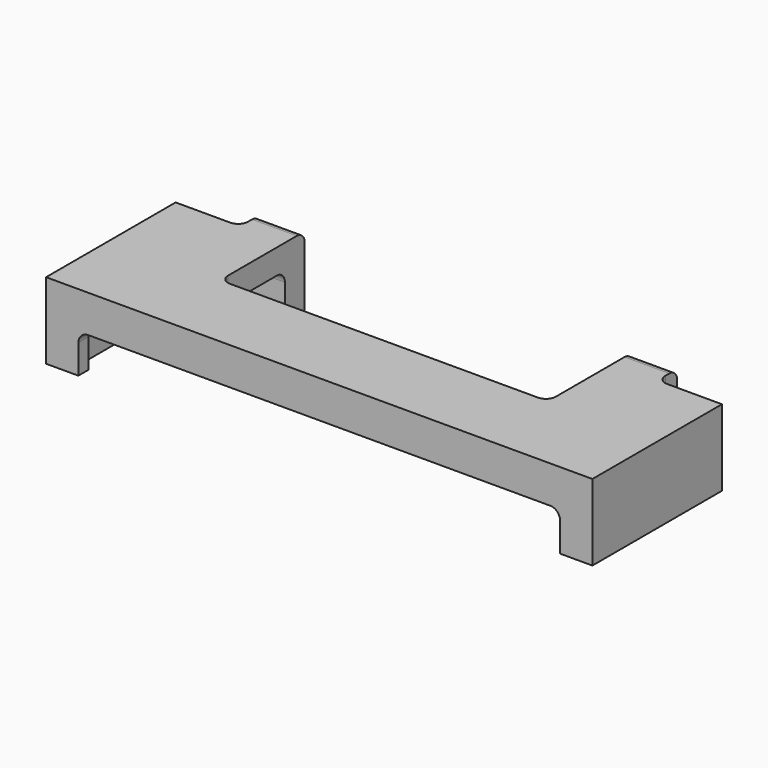
from build123d import *

# Parameters (mm, degrees)
SKETCH045_W     = 110
SKETCH045_H     = 32.6
PAD025_DEPTH    = 15.35
SKETCH046_W     = 9
SKETCH046_H     = 24.35
SKETCH046_R     = 2.25
PAD026_DEPTH    = 5
FILLET018_R     = 3.5
SKETCH047_W     = 101.4
SKETCH047_H     = 30.1
POCKET021_DEPTH = 10.35
SKETCH048_W     = 97
SKETCH048_H     = 2.5
POCKET022_DEPTH = 7.85
FILLET019_R     = 2
SKETCH049_W     = 66
SKETCH049_H     = 16.3
POCKET023_DEPTH = 5
FILLET020_R     = 2
FILLET021_R     = 2


with BuildPart() as part:
    # Sketch045 → Pad025 (new body)
    with BuildSketch(Plane.XY):
        Rectangle(SKETCH045_W, SKETCH045_H)
    extrude(amount=PAD025_DEPTH)

    # Sketch046 (on Face1 of Pad025) → Pad026 (join)
    with BuildSketch(Plane(origin=(0, 16.3, 0), x_dir=(-1, 0, 0), z_dir=(0, 1, 0))):
        with Locations((-37.5, 3.175)):
            Rectangle(SKETCH046_W, SKETCH046_H)
        with Locations((-37.5, -4.5)):
            Circle(SKETCH046_R, mode=Mode.SUBTRACT)
        with Locations((37.5, 3.175)):
            Rectangle(SKETCH046_W, SKETCH046_H)
        with Locations((37.5, -4.5)):
            Circle(SKETCH046_R, mode=Mode.SUBTRACT)
    extrude(amount=PAD026_DEPTH)

    # Fillet018
    fillet018_edges = [part.edges().sort_by_distance(p)[0] for p in [
        (42, 18.8, -9),
        (33, 18.8, -9),
        (-33, 18.8, -9),
        (-42, 18.8, -9),
    ]]
    fillet(fillet018_edges, radius=FILLET018_R)

    # Sketch047 (on Face7 of Fillet018) → Pocket021 (cut)
    with BuildSketch(Plane(origin=(0, 0, 0), x_dir=(1, 0, 0), z_dir=(0, 0, -1))):
        with Locations((0, -1.25)):
            Rectangle(SKETCH047_W, SKETCH047_H)
    extrude(amount=-POCKET021_DEPTH, mode=Mode.SUBTRACT)

    # Sketch048 (on Face12 of Pocket021) → Pocket022 (cut)
    with BuildSketch(Plane(origin=(0, 0, 0), x_dir=(1, 0, 0), z_dir=(0, 0, -1))):
        with Locations((0, 15.05)):
            Rectangle(SKETCH048_W, SKETCH048_H)
    extrude(amount=-POCKET022_DEPTH, mode=Mode.SUBTRACT)

    # Fillet019
    fillet019_edges = [part.edges().sort_by_distance(p)[0] for p in [
        (-48.5, -15.05, 7.85),
        (48.5, -15.05, 7.85),
    ]]
    fillet(fillet019_edges, radius=FILLET019_R)

    # Sketch049 (on Face20 of Fillet019) → Pocket023 (cut)
    with BuildSketch(Plane.XY.offset(15.35)):
        with Locations((0, 8.15)):
            Rectangle(SKETCH049_W, SKETCH049_H)
    extrude(amount=-POCKET023_DEPTH, mode=Mode.SUBTRACT)

    # Fillet020
    fillet020_edges = [part.edges().sort_by_distance(p)[0] for p in [
        (-33, 0, 12.85),
        (33, 0, 12.85),
        (-37.5, 16.3, 10.35),
        (37.5, 16.3, 10.35),
        (37.5, 21.3, 15.35),
        (-37.5, 21.3, 15.35),
    ]]
    fillet(fillet020_edges, radius=FILLET020_R)

    # Fillet021
    fillet021_edges = [part.edges().sort_by_distance(p)[0] for p in [
        (42, 16.3, 12.85),
        (-42, 16.3, 12.85),
    ]]
    fillet(fillet021_edges, radius=FILLET021_R)


with BuildPart() as part_1:
    # Body011 placement: moved
    add(part.part.moved(Location((0, 0, 51.75))))


solid = part_1.part
